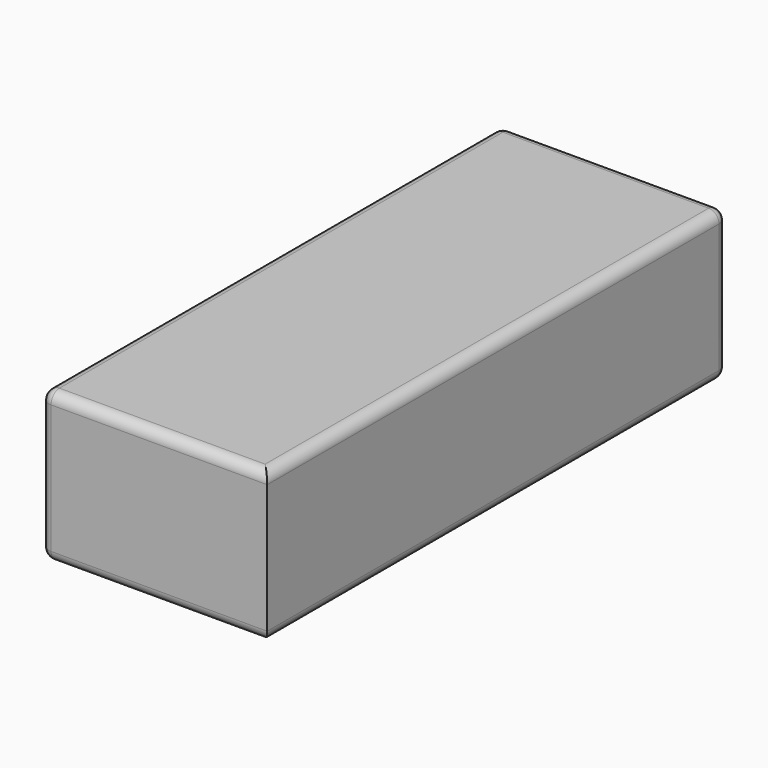
from build123d import *

# Parameters (mm, degrees)
F0_W     = 65
F0_H     = 165
F1_DEPTH = 43
F2_R     = 3


with BuildPart() as f1:
    # F0 (on Top) → F1 (new body)
    with BuildSketch(Plane.XY):
        Rectangle(F0_W, F0_H)
    extrude(amount=F1_DEPTH)

    # F2
    f2_edges = [f1.edges().sort_by_distance(p)[0] for p in [
        (-32.5, 82.5, 21.5),
        (-32.5, -82.5, 21.5),
        (-32.5, 0, 0),
        (-32.5, 0, 43),
        (0, 82.5, 43),
        (0, -82.5, 43),
        (32.5, 0, 43),
        (32.5, 82.5, 21.5),
        (0, 82.5, 0),
        (0, -82.5, 0),
        (32.5, 0, 0),
    ]]
    fillet(f2_edges, radius=F2_R)


solid = f1.part
